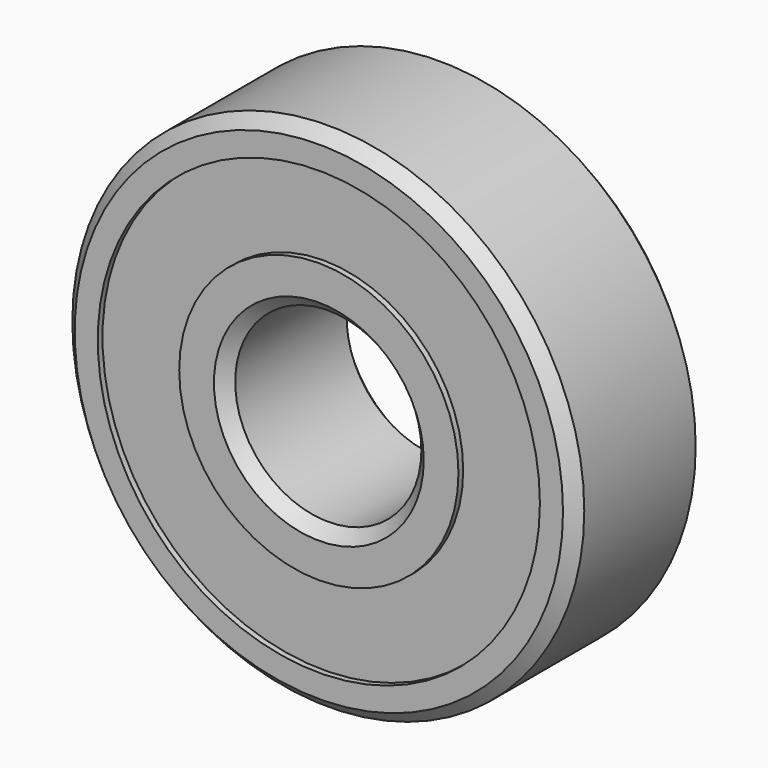
from build123d import *

# Parameters (mm, degrees)
F0_R     = 11
F0_R_2   = 4
F1_DEPTH = 7
F2_SIZE  = 0.508
F3_R     = 9.5
F3_R_2   = 6
F4_DEPTH = 0.254
F5_R     = 9.5
F5_R_2   = 6
F6_DEPTH = 0.254


with BuildPart() as f1:
    # F0 (on Front) → F1 (new body)
    with BuildSketch(Plane.XZ):
        Circle(F0_R)
        Circle(F0_R_2, mode=Mode.SUBTRACT)
    extrude(amount=F1_DEPTH)

    # F2
    f2_edges = [f1.edges().sort_by_distance(p)[0] for p in [
        (11, -3.5, 0),
        (-11, 0, 0),
        (-11, -7, 0),
        (4, -3.5, 0),
        (-4, 0, 0),
        (-4, -7, 0),
    ]]
    chamfer(f2_edges, length=F2_SIZE)

    # F3 (on face) → F4 (cut)
    with BuildSketch(Plane(origin=(0, 0, 0), x_dir=(-1, 0, 0), z_dir=(0, 1, 0))):
        Circle(F3_R)
        Circle(F3_R_2, mode=Mode.SUBTRACT)
    extrude(amount=-F4_DEPTH, mode=Mode.SUBTRACT)

    # F5 (on face) → F6 (cut)
    with BuildSketch(Plane.XZ.offset(7)):
        Circle(F5_R)
        Circle(F5_R_2, mode=Mode.SUBTRACT)
    extrude(amount=-F6_DEPTH, mode=Mode.SUBTRACT)


solid = f1.part
